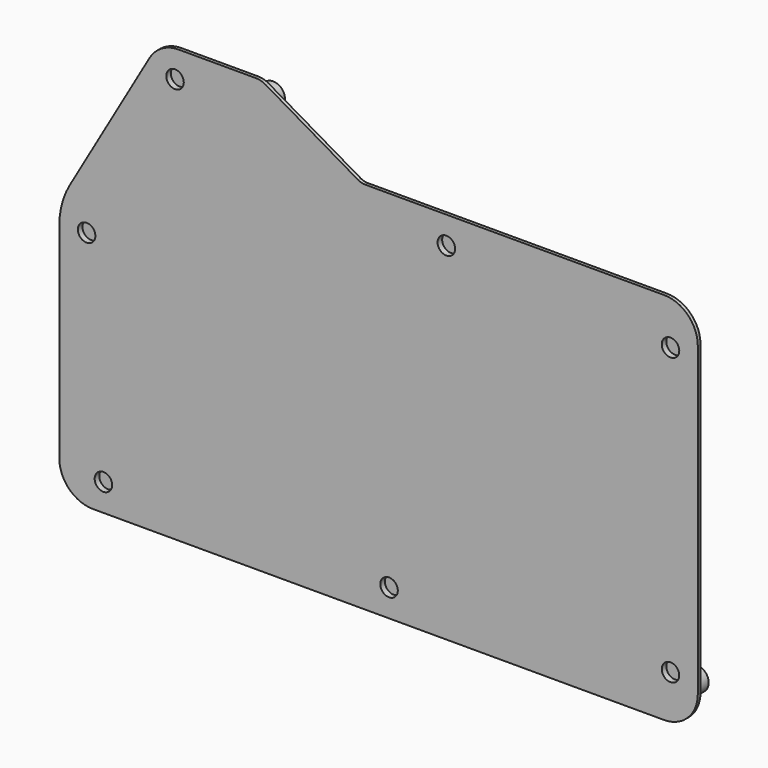
from build123d import *

# Parameters (mm, degrees)
PAD017_DEPTH    = 1
PAD018_DEPTH    = 2
SKETCH041_R     = 3.5
PAD019_DEPTH    = 3.3
SKETCH042_R     = 2.55
POCKET018_DEPTH = 4.3
SKETCH043_R     = 2.8
PAD020_DEPTH    = 1.5
SKETCH044_R     = 2.1
POCKET019_DEPTH = 3
SKETCH045_R     = 3.5
PAD021_DEPTH    = 5.8
SKETCH046_R     = 2.55
POCKET020_DEPTH = 3.8
SKETCH047_R     = 2.6
POCKET021_DEPTH = 1.7
POCKET025_DEPTH = 2


with BuildPart() as part:
    # Sketch038 → Pad017 (new body)
    with BuildSketch(Plane.XZ):
        with BuildLine():
            ThreePointArc((6, 16), (8.928932, 8.928932), (16, 6))
            Line((16, 6), (185.51, 6))
            ThreePointArc((185.51, 6), (192.581068, 8.928932), (195.51, 16))
            Line((195.51, 16), (195.51, 107.04))
            ThreePointArc((195.51, 107.04), (192.581068, 114.111068), (185.51, 117.04))
            Line((185.51, 117.04), (96.718237, 117.04))
            ThreePointArc((96.718237, 117.04), (95.677689, 117.177713), (94.70879, 117.58137))
            Line((94.70879, 117.58137), (67.290497, 133.511257))
            ThreePointArc((67.290497, 133.511257), (65.837149, 134.116742), (64.276328, 134.323311))
            Line((64.276328, 134.323311), (41.441667, 134.323311))
            ThreePointArc((41.441667, 134.323311), (36.445319, 132.985672), (32.785632, 129.330611))
            Line((32.785632, 129.330611), (9.11531, 88.412125))
            ThreePointArc((9.11531, 88.412125), (6.792371, 82.814067), (6, 76.805203))
            Line((6, 76.805203), (6, 16))
        make_face()
    extrude(amount=PAD017_DEPTH)

    # Sketch040 (on Face15 of Pad017) → Pad018 (join)
    with BuildSketch(Plane(origin=(0, 0, 0), x_dir=(1, 0, 0), z_dir=(0, 1, 0))):
        with BuildLine():
            Line((16.1, -9.1), (185.41, -9.1))
            ThreePointArc((192.41, -16.1), (190.359747, -11.150253), (185.41, -9.1))
            Line((192.41, -16.1), (192.41, -106.94))
            ThreePointArc((185.41, -113.94), (190.359747, -111.889747), (192.41, -106.94))
            Line((185.41, -113.94), (95.883059, -113.94))
            ThreePointArc((95.883059, -113.94), (94.842511, -114.077713), (93.873612, -114.48137))
            Line((93.873612, -114.48137), (66.455319, -130.411257))
            ThreePointArc((63.44115, -131.223311), (65.001971, -131.016742), (66.455319, -130.411257))
            Line((63.44115, -131.223311), (41.499346, -131.223311))
            ThreePointArc((35.440122, -127.728421), (38.001902, -130.286964), (41.499346, -131.223311))
            Line((35.440122, -127.728421), (12.21531, -87.580081))
            ThreePointArc((9.1, -75.97316), (9.892371, -81.982024), (12.21531, -87.580081))
            Line((9.1, -75.97316), (9.1, -16.1))
            ThreePointArc((16.1, -9.1), (11.150253, -11.150253), (9.1, -16.1))
        make_face()
    extrude(amount=PAD018_DEPTH)

    # Sketch041 (on Face31 of Pad018) → Pad019 (join)
    with BuildSketch(Plane(origin=(0, 2, 0), x_dir=(1, 0, 0), z_dir=(0, 1, 0))):
        with Locations((145.11, -12.99)):
            Circle(SKETCH041_R)
        with Locations((64.452126, -127.45504)):
            Circle(SKETCH041_R)
        with Locations((14.14, -13.51)):
            Circle(SKETCH041_R)
        with Locations((19.14, -90.503884)):
            Circle(SKETCH041_R)
        with Locations((105.9, -108.54)):
            Circle(SKETCH041_R)
        with Locations((74.12, -12.75)):
            Circle(SKETCH041_R)
    extrude(amount=PAD019_DEPTH)

    # Sketch042 (on Face38 of Pad019) → Pocket018 (cut)
    with BuildSketch(Plane(origin=(0, 5.3, 0), x_dir=(1, 0, 0), z_dir=(0, 1, 0))):
        with Locations((145.11, -12.99)):
            Circle(SKETCH042_R)
        with Locations((19.14, -90.503884)):
            Circle(SKETCH042_R)
        with Locations((64.452126, -127.45504)):
            Circle(SKETCH042_R)
        with Locations((105.9, -108.54)):
            Circle(SKETCH042_R)
        with Locations((14.14, -13.51)):
            Circle(SKETCH042_R)
        with Locations((74.12, -12.75)):
            Circle(SKETCH042_R)
    extrude(amount=-POCKET018_DEPTH, mode=Mode.SUBTRACT)

    # Sketch043 (on Face31 of Pocket018) → Pad020 (join)
    with BuildSketch(Plane(origin=(0, 2, 0), x_dir=(1, 0, 0), z_dir=(0, 1, 0))):
        with Locations((185.580566, -111.078545)):
            Circle(SKETCH043_R)
    extrude(amount=PAD020_DEPTH)

    # Sketch044 (on Face45 of Pad020) → Pocket019 (cut)
    with BuildSketch(Plane(origin=(0, 3.5, 0), x_dir=(1, 0, 0), z_dir=(0, 1, 0))):
        with Locations((185.580566, -111.078545)):
            Circle(SKETCH044_R)
    extrude(amount=-POCKET019_DEPTH, mode=Mode.SUBTRACT)

    # Sketch045 (on Face31 of Pocket019) → Pad021 (join)
    with BuildSketch(Plane(origin=(0, 2, 0), x_dir=(1, 0, 0), z_dir=(0, 1, 0))):
        with Locations((188.21, -14.18)):
            Circle(SKETCH045_R)
    extrude(amount=PAD021_DEPTH)

    # Sketch046 (on Face45 of Pad021) → Pocket020 (cut)
    with BuildSketch(Plane(origin=(0, 7.8, 0), x_dir=(1, 0, 0), z_dir=(0, 1, 0))):
        with Locations((188.21, -14.18)):
            Circle(SKETCH046_R)
    extrude(amount=-POCKET020_DEPTH, mode=Mode.SUBTRACT)

    # Sketch047 (on Face5 of Pocket020) → Pocket021 (cut)
    with BuildSketch(Plane.XZ.offset(1)):
        with Locations((187.41, 103.94)):
            Circle(SKETCH047_R)
        with Locations((40.34577, 126.223311)):
            Circle(SKETCH047_R)
        with Locations((14.1, 77.580081)):
            Circle(SKETCH047_R)
        with Locations((103.873612, 14.1)):
            Circle(SKETCH047_R)
        with Locations((187.41, 19.1)):
            Circle(SKETCH047_R)
        with Locations((120.883059, 108.94)):
            Circle(SKETCH047_R)
        with Locations((19.1, 14.1)):
            Circle(SKETCH047_R)
    extrude(amount=-POCKET021_DEPTH, mode=Mode.SUBTRACT)

    # Sketch056 (on Face38 of Pocket021) → Pocket025 (cut)
    with BuildSketch(Plane(origin=(0, 2, 0), x_dir=(1, 0, 0), z_dir=(0, 1, 0))):
        Polygon((146.906174, -8.786863), (146.906174, -9.81445), (150.102356, -9.81445), (150.102356, -15.780038), (161.659576, -15.780038), (161.659576, -9.891122), (164.762894, -9.891122), (164.762894, -8.786863), align=None)
    extrude(amount=-POCKET025_DEPTH, mode=Mode.SUBTRACT)


with BuildPart() as part_1:
    # Body004 placement: moved
    add(part.part.moved(Location((0, -118.5, 0))))


solid = part_1.part
